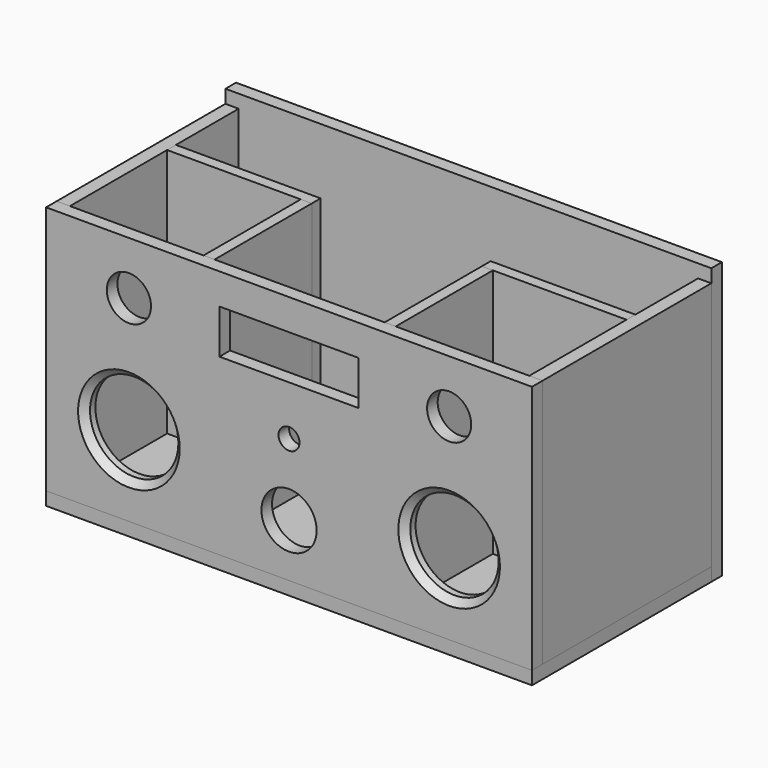
from build123d import *

# Parameters (mm, degrees)
F0_W      = 440
F0_H      = 226
F0_R      = 40
F0_R_2    = 25
F0_R_3    = 20
F0_R_4    = 9.5
F0_W_2    = 126
F0_H_2    = 40
F1_DEPTH  = 12
F2_W      = 12
F2_H      = 226
F3_DEPTH  = 191
F4_W      = 10
F4_H      = 226
F5_DEPTH  = 110
F6_W      = 10
F6_H      = 226
F7_DEPTH  = 131
F8_W      = 10
F8_H      = 226
F9_DEPTH  = 131
F10_W     = 203
F10_H     = 12
F11_DEPTH = 440
F12_W     = 440
F12_H     = 250
F13_DEPTH = 12
F14_R     = 57
F15_DEPTH = 12
F16_SIZE  = 6


with BuildPart() as f1:
    # F0 (on Front) → F1 (new body)
    with BuildSketch(Plane.XZ):
        with Locations((220, 113)):
            Rectangle(F0_W, F0_H)
        with Locations((75, 73)):
            Circle(F0_R, mode=Mode.SUBTRACT)
        with Locations((220, 48)):
            Circle(F0_R_2, mode=Mode.SUBTRACT)
        with Locations((365, 73)):
            Circle(F0_R, mode=Mode.SUBTRACT)
        with Locations((75, 178)):
            Circle(F0_R_3, mode=Mode.SUBTRACT)
        with Locations((220, 113)):
            Circle(F0_R_4, mode=Mode.SUBTRACT)
        with Locations((220, 178)):
            Rectangle(F0_W_2, F0_H_2, mode=Mode.SUBTRACT)
        with Locations((365, 178)):
            Circle(F0_R_3, mode=Mode.SUBTRACT)
    extrude(amount=F1_DEPTH)

    # F16
    f16_edges = [f1.edges().sort_by_distance(p)[0] for p in [
        (325, -12, 73),
        (35, -12, 73),
    ]]
    chamfer(f16_edges, length=F16_SIZE)


with BuildPart() as f3:
    # F2 (on face) → F3 (new body)
    with BuildSketch(Plane(origin=(0, 0, 0), x_dir=(-1, 0, 0), z_dir=(0, 1, 0))):
        with Locations((-434, 113)):
            Rectangle(F2_W, F2_H)
        with Locations((-6, 113)):
            Rectangle(F2_W, F2_H)
    extrude(amount=F3_DEPTH)


with BuildPart() as f5:
    # F4 (on face) → F5 (new body)
    with BuildSketch(Plane(origin=(0, 0, 0), x_dir=(-1, 0, 0), z_dir=(0, 1, 0))):
        with Locations((-302, 113)):
            Rectangle(F4_W, F4_H)
        with Locations((-138, 113)):
            Rectangle(F4_W, F4_H)
    extrude(amount=F5_DEPTH)


with BuildPart() as f7:
    # F6 (on face) → F7 (new body, through all)
    with BuildSketch(Plane(origin=(297, 0, 0), x_dir=(0, -1, 0), z_dir=(-1, 0, 0))):
        with Locations((-115, 113)):
            Rectangle(F6_W, F6_H)
    extrude(amount=-F7_DEPTH)


with BuildPart() as f9:
    # F8 (on face) → F9 (new body, through all)
    with BuildSketch(Plane.YZ.offset(143)):
        with Locations((115, 113)):
            Rectangle(F8_W, F8_H)
    extrude(amount=-F9_DEPTH)


with BuildPart() as f11:
    # F10 (on face) → F11 (new body)
    with BuildSketch(Plane.YZ.offset(440)):
        with Locations((89.5, -6)):
            Rectangle(F10_W, F10_H)
    extrude(amount=-F11_DEPTH)

    # F14 (on face) → F15 (cut)
    with BuildSketch(Plane.XY):
        with Locations((220, 118)):
            Circle(F14_R)
    extrude(amount=-F15_DEPTH, mode=Mode.SUBTRACT)


with BuildPart() as f13:
    # F12 (on face) → F13 (new body)
    with BuildSketch(Plane(origin=(0, 191, 0), x_dir=(-1, 0, 0), z_dir=(0, 1, 0))):
        with Locations((-220, 113)):
            Rectangle(F12_W, F12_H)
    extrude(amount=F13_DEPTH)


solid = Compound([f1.part, f3.part, f5.part, f7.part, f9.part, f11.part, f13.part])
